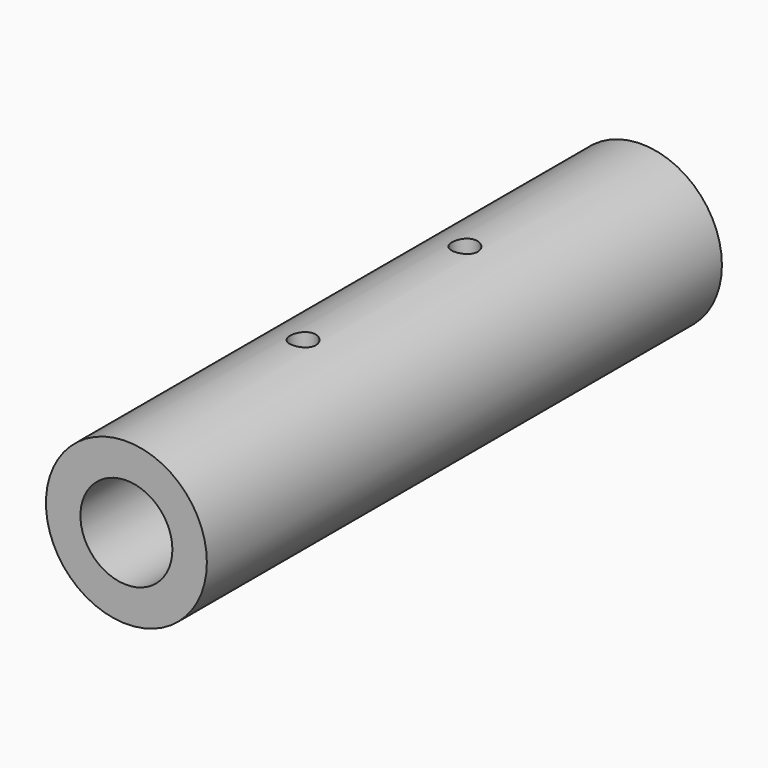
from build123d import *

# Parameters (mm, degrees)
F0_R     = 11.1125
F1_DEPTH = 44.45
F2_R     = 6.35
F3_DEPTH = 88.901
F4_R     = 1.778
F5_DEPTH = 11.1125
F6_R     = 1.778
F7_DEPTH = 11.1125


with BuildPart() as f1:
    # F0 (on Front) → F1 (new body, symmetric)
    with BuildSketch(Plane.XZ):
        Circle(F0_R)
    extrude(amount=F1_DEPTH, both=True)

    # F2 (on face) → F3 (cut, through all)
    with BuildSketch(Plane.XZ.offset(44.45)):
        Circle(F2_R)
    extrude(amount=-F3_DEPTH, mode=Mode.SUBTRACT)

    # F4 (on Top) → F5 (cut, symmetric)
    with BuildSketch(Plane.XY):
        with Locations((0, 13.97)):
            Circle(F4_R)
    extrude(amount=F5_DEPTH, both=True, mode=Mode.SUBTRACT)

    # F6 (on Top) → F7 (cut, symmetric)
    with BuildSketch(Plane.XY):
        with Locations((0, -13.97)):
            Circle(F6_R)
    extrude(amount=F7_DEPTH, both=True, mode=Mode.SUBTRACT)


solid = f1.part
